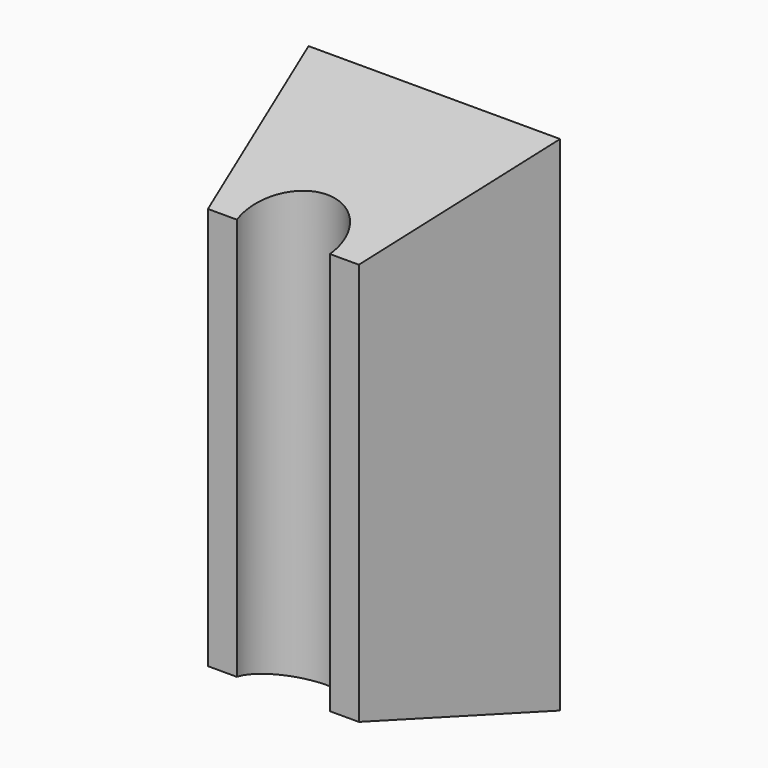
from build123d import *

# Parameters (mm, degrees)
F0_W     = 25.4
F0_H     = 50.8
F2_W     = 15.24
F2_H     = 40.64
F5_R     = 4.7625
F6_DEPTH = 50.801
F7_W     = 20.32
F7_H     = 45.72
F8_DEPTH = 1.5875


with BuildPart() as f3:
    # F0 (on Front) → F3 section 0
    with BuildSketch(Plane.XZ):
        Rectangle(F0_W, F0_H)
    # F2 (on offset) → F3 section 1
    with BuildSketch(Plane.XZ.offset(19.05)):
        Rectangle(F2_W, F2_H)
    loft()

    # F5 (on face) → F6 (cut, through all)
    with BuildSketch(Plane.XY.offset(25.4)):
        with Locations((0, -18.25625)):
            Circle(F5_R)
    extrude(amount=-F6_DEPTH, mode=Mode.SUBTRACT)

    # F7 (on face) → F8 (cut)
    with BuildSketch(Plane(origin=(0, 0, 0), x_dir=(-1, 0, 0), z_dir=(0, 1, 0))):
        Rectangle(F7_W, F7_H)
    extrude(amount=-F8_DEPTH, mode=Mode.SUBTRACT)


solid = f3.part
